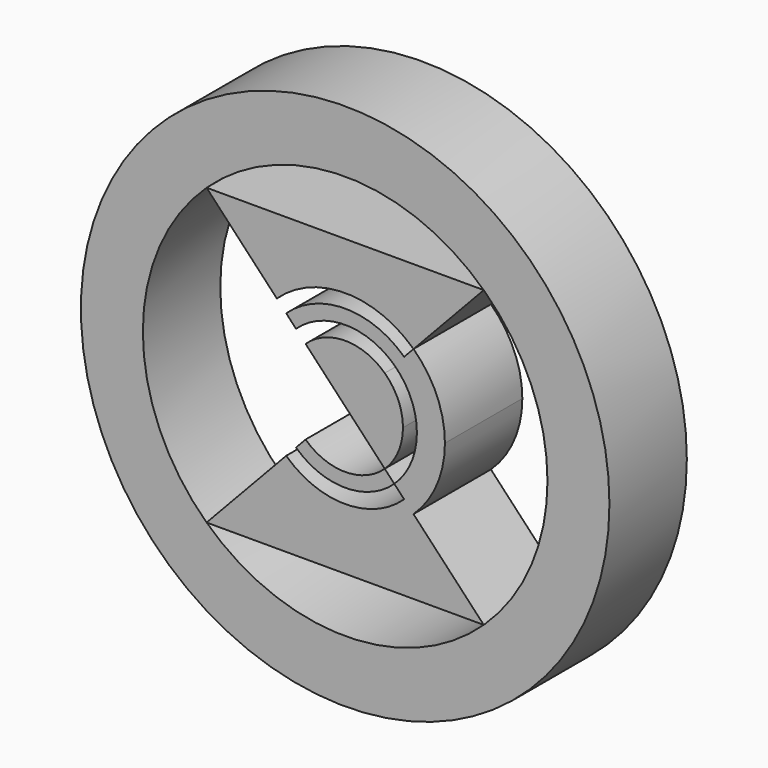
from build123d import *

# Parameters (mm, degrees)
F0_R     = 69.3767994243
F0_R_2   = 63.285072276
F0_R_3   = 57.9920714967
F1_DEPTH = 25.4


with BuildPart() as f1:
    # F0 (on Front) → F1 (new body)
    with BuildSketch(Plane.XZ):
        Circle(F0_R)
        Circle(F0_R_2, mode=Mode.SUBTRACT)
        Circle(F0_R_2)
        Circle(F0_R_3, mode=Mode.SUBTRACT)
        Circle(F0_R_3)
        with BuildLine():
            ThreePointArc((36.3834976402, 38.6899961749), (48.7493751568, 21.0754152123), (53.1100245203, 0))
            ThreePointArc((53.1100245203, 0), (48.7493751568, -21.0754152123), (36.3834976402, -38.6899961749))
            ThreePointArc((36.3834976402, -38.6899961749), (0, -53.1100245203), (-36.3834976402, -38.6899961749))
            ThreePointArc((-36.3834976402, -38.6899961749), (-53.1100245203, 0), (-36.3834976402, 38.6899961749))
            ThreePointArc((-36.3834976402, 38.6899961749), (0, 53.1100245203), (36.3834976402, 38.6899961749))
        make_face(mode=Mode.SUBTRACT)
    extrude(amount=F1_DEPTH)


with BuildPart() as f1b:
    # F0 (on Front) → F1, piece 2 (new body)
    with BuildSketch(Plane.XZ):
        with BuildLine():
            Line((-36.3834976402, -38.6899961749), (36.3834976402, -38.6899961749))
            Line((36.3834976402, -38.6899961749), (17.9395852578, -19.076848847))
            ThreePointArc((17.9395852578, -19.076848847), (0, -26.1869219488), (-17.9395852578, -19.076848847))
            Line((-17.9395852578, -19.076848847), (-36.3834976402, -38.6899961749))
        make_face()
        with BuildLine():
            ThreePointArc((22.5969677196, 0), (20.7416220707, 8.9670543656), (15.4802549825, 16.4616115796))
            Line((15.4802549825, 16.4616115796), (12.900691587, 13.7185191235))
            ThreePointArc((12.900691587, 13.7185191235), (17.2853269957, 7.4728228278), (18.8315057912, 0))
            ThreePointArc((18.8315057912, 0), (17.2853269957, -7.4728228278), (12.900691587, -13.7185191235))
            Line((12.900691587, -13.7185191235), (15.4802549825, -16.4616115796))
            ThreePointArc((15.4802549825, -16.4616115796), (20.7416220707, -8.9670543656), (22.5969677196, 0))
        make_face()
        with BuildLine():
            Line((12.900691587, 13.7185191235), (15.4802549825, 16.4616115796))
            ThreePointArc((15.4802549825, 16.4616115796), (0, 22.5969677196), (-15.4802549825, 16.4616115796))
            Line((-15.4802549825, 16.4616115796), (-12.900691587, 13.7185191235))
            ThreePointArc((-12.900691587, 13.7185191235), (0, 18.8315057912), (12.900691587, 13.7185191235))
        make_face()
        with BuildLine():
            ThreePointArc((26.1869219488, 0), (24.0368196741, 10.3916399623), (17.9395852578, 19.076848847))
            Line((17.9395852578, 19.076848847), (15.4802549825, 16.4616115796))
            ThreePointArc((15.4802549825, 16.4616115796), (20.7416220707, 8.9670543656), (22.5969677196, 0))
            ThreePointArc((22.5969677196, 0), (20.7416220707, -8.9670543656), (15.4802549825, -16.4616115796))
            Line((15.4802549825, -16.4616115796), (17.9395852578, -19.076848847))
            ThreePointArc((17.9395852578, -19.076848847), (24.0368196741, -10.3916399623), (26.1869219488, 0))
        make_face()
        with BuildLine():
            ThreePointArc((-17.9395852578, -19.076848847), (0, -26.1869219488), (17.9395852578, -19.076848847))
            Line((17.9395852578, -19.076848847), (15.4802549825, -16.4616115796))
            ThreePointArc((15.4802549825, -16.4616115796), (0, -22.5969677196), (-15.4802549825, -16.4616115796))
            Line((-15.4802549825, -16.4616115796), (-17.9395852578, -19.076848847))
        make_face()
    extrude(amount=F1_DEPTH)


with BuildPart() as f1c:
    # F0 (on Front) → F1, piece 3 (new body)
    with BuildSketch(Plane.XZ):
        with BuildLine():
            Line((17.9395852578, 19.076848847), (36.3834976402, 38.6899961749))
            Line((36.3834976402, 38.6899961749), (-36.3834976402, 38.6899961749))
            Line((-36.3834976402, 38.6899961749), (-17.9395852578, 19.076848847))
            ThreePointArc((-17.9395852578, 19.076848847), (0, 26.1869219488), (17.9395852578, 19.076848847))
        make_face()
    extrude(amount=F1_DEPTH)


with BuildPart() as f1d:
    # F0 (on Front) → F1, piece 4 (new body)
    with BuildSketch(Plane.XZ):
        with BuildLine():
            Line((0, 0), (10.3931309404, 11.0519939646))
            ThreePointArc((10.3931309404, 11.0519939646), (0, 15.1711483197), (-10.3931309404, 11.0519939646))
            Line((-10.3931309404, 11.0519939646), (0, 0))
        make_face()
        with BuildLine():
            ThreePointArc((15.1711483197, 0), (13.9255066756, 6.0202994251), (10.3931309404, 11.0519939646))
            Line((10.3931309404, 11.0519939646), (0, 0))
            Line((0, 0), (10.3931309404, -11.0519939646))
            ThreePointArc((10.3931309404, -11.0519939646), (13.9255066756, -6.0202994251), (15.1711483197, 0))
        make_face()
    extrude(amount=F1_DEPTH)


with BuildPart() as f1e:
    # F0 (on Front) → F1, piece 5 (new body)
    with BuildSketch(Plane.XZ):
        with BuildLine():
            ThreePointArc((-12.900691587, -13.7185191235), (0, -18.8315057912), (12.900691587, -13.7185191235))
            Line((12.900691587, -13.7185191235), (10.3931309404, -11.0519939646))
            ThreePointArc((10.3931309404, -11.0519939646), (0, -15.1711483197), (-10.3931309404, -11.0519939646))
            Line((-10.3931309404, -11.0519939646), (-12.900691587, -13.7185191235))
        make_face()
    extrude(amount=F1_DEPTH)


solid = Compound([f1.part, f1b.part, f1c.part, f1d.part, f1e.part])
